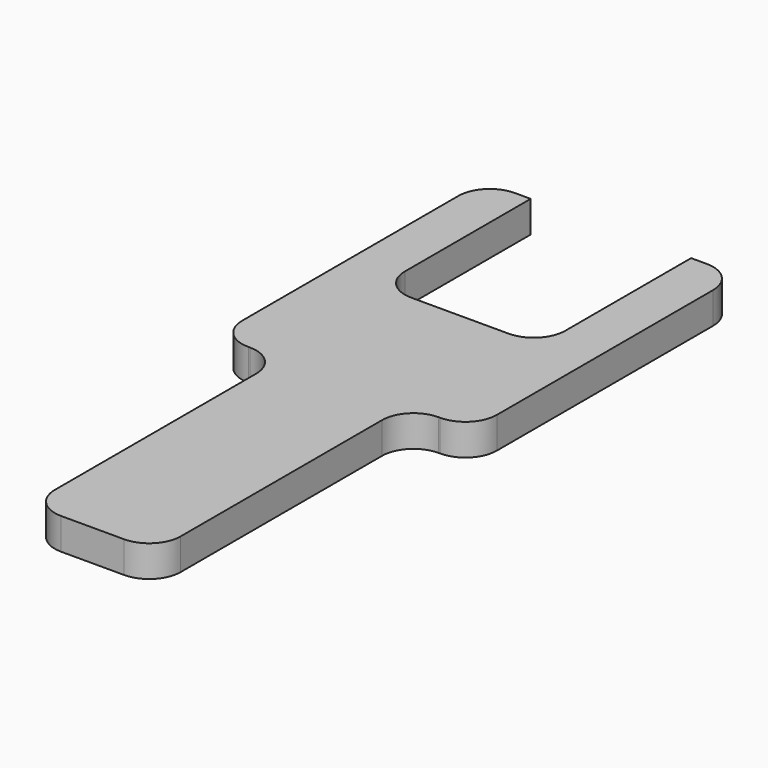
from build123d import *

# Parameters (mm, degrees)
F1_DEPTH = 10
F2_R     = 10


with BuildPart() as f1:
    # F0 (on Top) → F1 (new body)
    with BuildSketch(Plane.XY):
        Polygon((40.5, 60), (25.5, 60), (25.5, 0), (0, 0), (-25.5, 0), (-25.5, 60), (-40.5, 60), (-40.5, -45.930237), (-20, -45.930237), (-20, -145.930237), (0, -145.930237), (20, -145.930237), (20, -45.930237), (40.5, -45.930237), align=None)
    extrude(amount=F1_DEPTH)

    # F2
    f2_edges = [f1.edges().sort_by_distance(p)[0] for p in [
        (20, -145.930237, 5),
        (-20, -145.930237, 5),
        (40.5, -45.930237, 5),
        (20, -45.930237, 5),
        (-40.5, -45.930237, 5),
        (-20, -45.930237, 5),
        (25.5, 0, 5),
        (-25.5, 0, 5),
        (40.5, 60, 5),
        (-40.5, 60, 5),
    ]]
    fillet(f2_edges, radius=F2_R)


solid = f1.part
